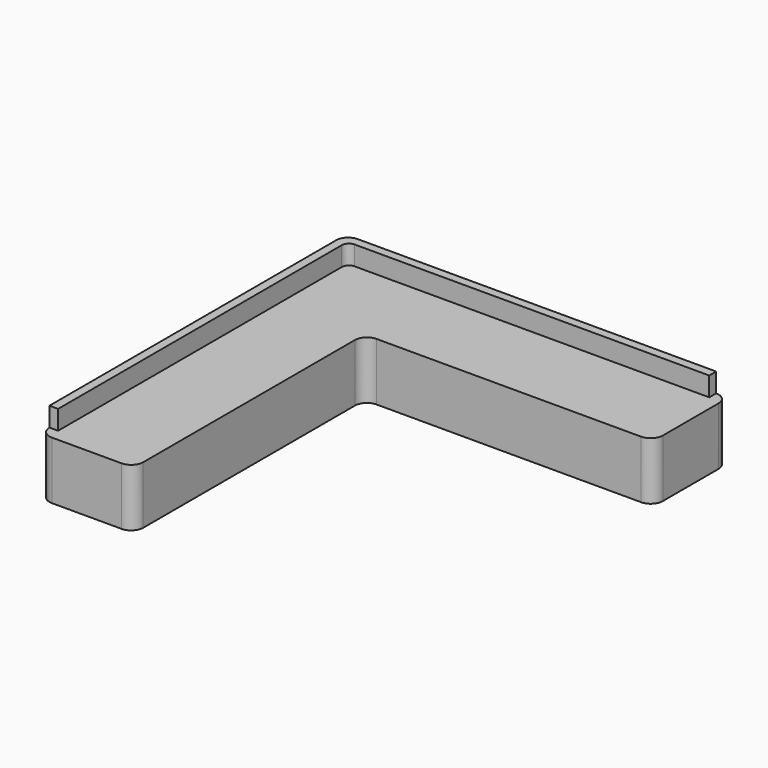
from build123d import *

# Parameters (mm, degrees)
F1_DEPTH       = 12
F3_DEPTH       = 4
F5_D           = 2.2
F5_DEPTH       = 10
F5_CSINK_D     = 2.5
F5_CSINK_ANGLE = 90
F5_TIP         = 0.6609466809
F6_D           = 2.2
F6_DEPTH       = 10
F6_CSINK_D     = 2.5
F6_CSINK_ANGLE = 90
F6_TIP         = 0.6609466809
F7_D           = 2.2
F7_DEPTH       = 10
F7_CSINK_D     = 2.5
F7_CSINK_ANGLE = 90
F7_TIP         = 0.6609466809
F8_D           = 2.2
F8_DEPTH       = 10
F8_CSINK_D     = 2.5
F8_CSINK_ANGLE = 90
F8_TIP         = 0.6609466809


with BuildPart() as f1:
    # F0 (on Top) → F1 (new body)
    with BuildSketch(Plane.XY):
        with BuildLine():
            Line((41.2117568254, 36.543219165), (-33.2882431746, 36.543219165))
            ThreePointArc((-33.2882431746, 36.543219165), (-35.0560101275, 35.810986118), (-35.7882431746, 34.043219165))
            Line((-35.7882431746, 34.043219165), (-35.7882431746, -40.456780835))
            ThreePointArc((-35.7882431746, -40.456780835), (-35.0560101275, -42.2245477879), (-33.2882431746, -42.956780835))
            Line((-33.2882431746, -42.956780835), (-18.7882431746, -42.956780835))
            ThreePointArc((-18.7882431746, -42.956780835), (-17.0204762216, -42.2245477879), (-16.2882431746, -40.456780835))
            Line((-16.2882431746, -40.456780835), (-16.2882431746, 14.543219165))
            ThreePointArc((-16.2882431746, 14.543219165), (-15.5560101275, 16.310986118), (-13.7882431746, 17.043219165))
            Line((-13.7882431746, 17.043219165), (41.2117568254, 17.043219165))
            ThreePointArc((41.2117568254, 17.043219165), (42.9795237784, 17.7754522121), (43.7117568254, 19.543219165))
            Line((43.7117568254, 19.543219165), (43.7117568254, 34.043219165))
            ThreePointArc((43.7117568254, 34.043219165), (42.9795237784, 35.810986118), (41.2117568254, 36.543219165))
        make_face()
    extrude(amount=F1_DEPTH)

    # F2 (on face) → F3 (join)
    with BuildSketch(Plane.XY.offset(12)):
        with BuildLine():
            ThreePointArc((-33.9882431746, 33.243219165), (-33.5489033463, 34.3038793368), (-32.4882431746, 34.743219165))
            Line((-32.4882431746, 34.743219165), (41.2117568254, 34.743219165))
            Line((41.2117568254, 34.743219165), (41.2117568254, 36.543219165))
            Line((41.2117568254, 36.543219165), (-33.2882431746, 36.543219165))
            ThreePointArc((-33.2882431746, 36.543219165), (-35.0560101275, 35.810986118), (-35.7882431746, 34.043219165))
            Line((-35.7882431746, 34.043219165), (-35.7882431746, -40.456780835))
            Line((-35.7882431746, -40.456780835), (-33.9882431746, -40.456780835))
            Line((-33.9882431746, -40.456780835), (-33.9882431746, 33.243219165))
        make_face()
    extrude(amount=F3_DEPTH)

    # F5
    with Locations(Plane(origin=(0, 0, 0), x_dir=(1, 0, 0), z_dir=(0, 0, -1))):
        with Locations((34.7117568254, -26.043219165)):
            CounterSinkHole(F5_D / 2, F5_CSINK_D / 2, depth=F5_DEPTH, counter_sink_angle=F5_CSINK_ANGLE)
            with Locations((0, 0, -(F5_DEPTH + F5_TIP / 2))):  # 118° drill point
                Cone(0, F5_D / 2, F5_TIP, mode=Mode.SUBTRACT)

    # F6
    with Locations(Plane(origin=(0, 0, 0), x_dir=(1, 0, 0), z_dir=(0, 0, -1))):
        with Locations((-15.2882431746, -26.043219165)):
            CounterSinkHole(F6_D / 2, F6_CSINK_D / 2, depth=F6_DEPTH, counter_sink_angle=F6_CSINK_ANGLE)
            with Locations((0, 0, -(F6_DEPTH + F6_TIP / 2))):  # 118° drill point
                Cone(0, F6_D / 2, F6_TIP, mode=Mode.SUBTRACT)

    # F7
    with Locations(Plane(origin=(0, 0, 0), x_dir=(1, 0, 0), z_dir=(0, 0, -1))):
        with Locations((-25.2882431746, -16.043219165)):
            CounterSinkHole(F7_D / 2, F7_CSINK_D / 2, depth=F7_DEPTH, counter_sink_angle=F7_CSINK_ANGLE)
            with Locations((0, 0, -(F7_DEPTH + F7_TIP / 2))):  # 118° drill point
                Cone(0, F7_D / 2, F7_TIP, mode=Mode.SUBTRACT)

    # F8
    with Locations(Plane(origin=(0, 0, 0), x_dir=(1, 0, 0), z_dir=(0, 0, -1))):
        with Locations((-25.2882431746, 33.956780835)):
            CounterSinkHole(F8_D / 2, F8_CSINK_D / 2, depth=F8_DEPTH, counter_sink_angle=F8_CSINK_ANGLE)
            with Locations((0, 0, -(F8_DEPTH + F8_TIP / 2))):  # 118° drill point
                Cone(0, F8_D / 2, F8_TIP, mode=Mode.SUBTRACT)


solid = f1.part
